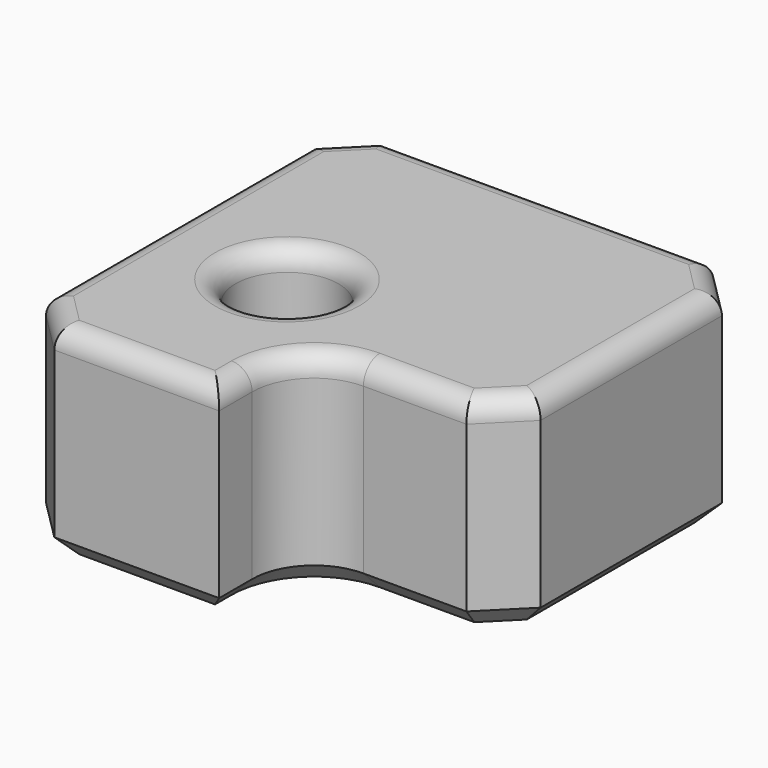
from build123d import *

# Parameters (mm, degrees)
PAD_DEPTH       = 10
SKETCH001_R     = 2.5
POCKET_DEPTH    = 5
FILLET_R        = 3
CHAMFER_SIZE    = 2
FILLET001_R     = 1
CHAMFER001_SIZE = 1
SKETCH003_R     = 1.5
POCKET001_DEPTH = 5
CHAMFER002_SIZE = 0.25


with BuildPart() as part:
    # Sketch → Pad (new body)
    with BuildSketch(Plane.XY):
        Polygon((0, 0), (0, 20), (20, 20), (20, 5), (10, 5), (10, 0), align=None)
    extrude(amount=PAD_DEPTH)

    # Sketch001 (on Face8 of Pad) → Pocket (cut)
    with BuildSketch(Plane.XY.offset(10)):
        with Locations((6.464466, 8.535534)):
            Circle(SKETCH001_R)
    extrude(amount=-POCKET_DEPTH, mode=Mode.SUBTRACT)

    # Fillet
    fillet_edges = [part.edges().sort_by_distance(p)[0] for p in [
        (10, 5, 5),
    ]]
    fillet(fillet_edges, radius=FILLET_R)

    # Chamfer
    chamfer_edges = [part.edges().sort_by_distance(p)[0] for p in [
        (0, 0, 5),
        (20, 5, 5),
        (20, 20, 5),
        (0, 20, 5),
    ]]
    chamfer(chamfer_edges, length=CHAMFER_SIZE)

    # Fillet001
    fillet001_edges = [part.edges().sort_by_distance(p)[0] for p in [
        (6, 0, 10),
        (1, 1, 10),
        (10, 1, 10),
        (0, 10, 10),
        (10.87868, 4.12132, 10),
        (1, 19, 10),
        (15.5, 5, 10),
        (10, 20, 10),
        (19, 6, 10),
        (19, 19, 10),
        (20, 12.5, 10),
        (3.964466, 8.535534, 10),
    ]]
    fillet(fillet001_edges, radius=FILLET001_R)

    # Chamfer001
    chamfer001_edges = [part.edges().sort_by_distance(p)[0] for p in [
        (15.5, 5, 0),
        (19, 6, 0),
        (10.87868, 4.12132, 0),
        (20, 12.5, 0),
        (10, 1, 0),
        (19, 19, 0),
        (6, 0, 0),
        (10, 20, 0),
        (1, 1, 0),
        (1, 19, 0),
        (0, 10, 0),
    ]]
    chamfer(chamfer001_edges, length=CHAMFER001_SIZE)

    # Sketch003 (on Face9 of Chamfer001) → Pocket001 (cut)
    with BuildSketch(Plane(origin=(0, 0, 0), x_dir=(1, 0, 0), z_dir=(0, 0, -1))):
        with Locations((6.464466, -8.535534)):
            Circle(SKETCH003_R)
    extrude(amount=-POCKET001_DEPTH, mode=Mode.SUBTRACT)

    # Chamfer002
    chamfer002_edges = [part.edges().sort_by_distance(p)[0] for p in [
        (4.964466, 8.535534, 0),
        (4.964466, 8.535534, 5),
    ]]
    chamfer(chamfer002_edges, length=CHAMFER002_SIZE)


solid = part.part
